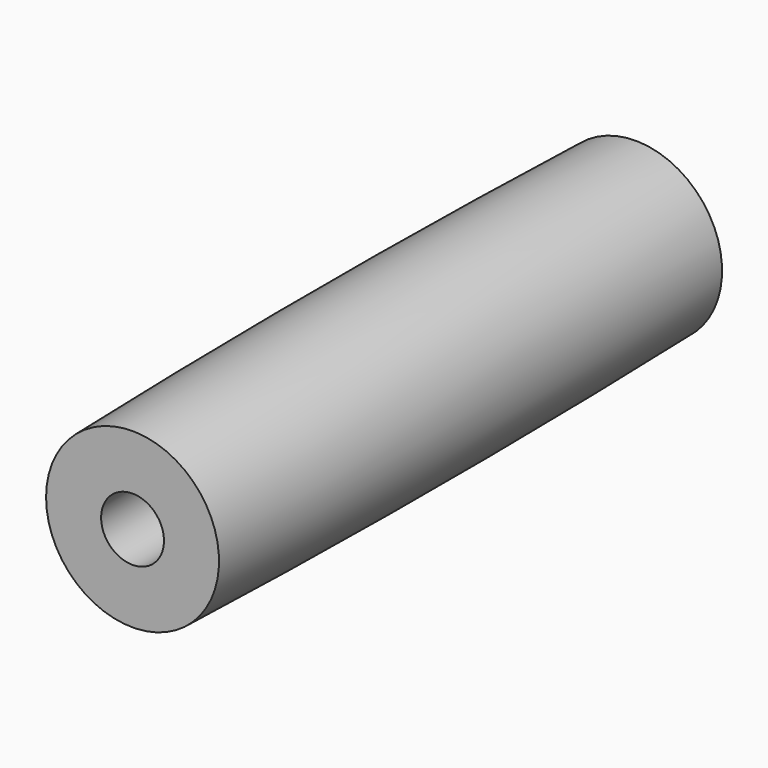
from build123d import *


with BuildPart() as part:
    # Sketch023 → Revolution001 (revolve)
    with BuildSketch(Plane(origin=(0, 36, -100), x_dir=(0, 1, 0), z_dir=(0, 0, 1))):
        with BuildLine():
            Line((-40, 4), (40, 4))
            Line((40, 4), (40, 11))
            ThreePointArc((40, 11), (0, 11.5), (-40, 11))
            Line((-40, 4), (-40, 11))
        make_face()
    revolve(axis=Axis((0, 36, -100), (0, 1, 0)))


solid = part.part
